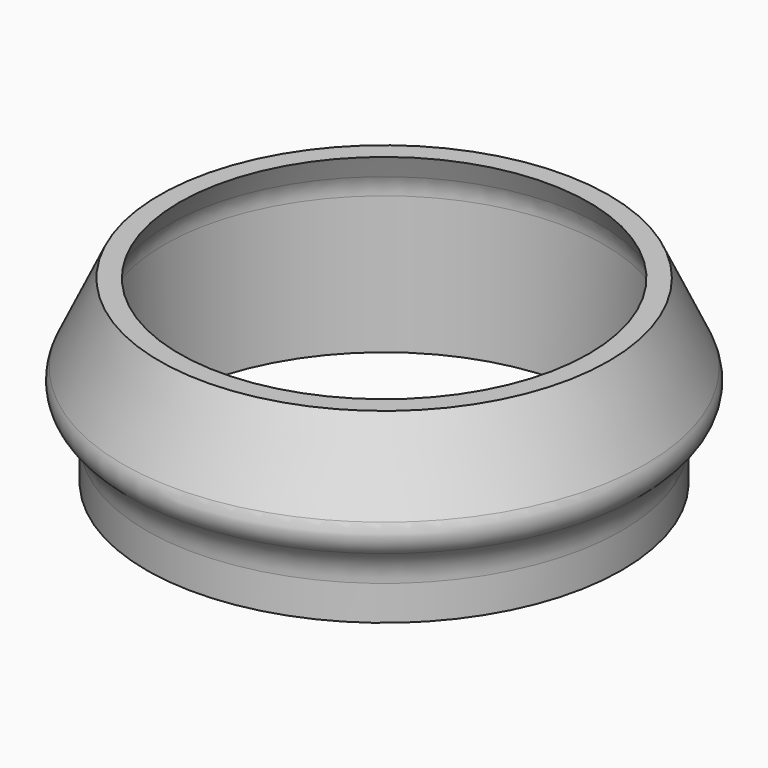
from build123d import *


with BuildPart() as f2:
    # F1 (on Front) → F2 (revolve)
    with BuildSketch(Plane.XZ):
        with BuildLine():
            Line((14.675, 3.195816), (14.675, -6))
            Line((14.675, -6), (15.875, -6))
            Line((15.875, -6), (15.875, -3.68273))
            ThreePointArc((15.875, -3.68273), (16.165368, -2.395137), (16.980263, -1.356795))
            ThreePointArc((16.980263, -1.356795), (17.580964, -0.39011), (17.460106, 0.741578))
            Line((17.460106, 0.741578), (15, 6))
            Line((15, 6), (13.675168, 6))
            Line((13.675168, 6), (14.392325, 4.467092))
            ThreePointArc((14.392325, 4.467092), (14.603479, 3.846978), (14.675, 3.195816))
        make_face()
    revolve(axis=Axis((0, 0, 13.405576), (0, 0, 1)))


solid = f2.part
